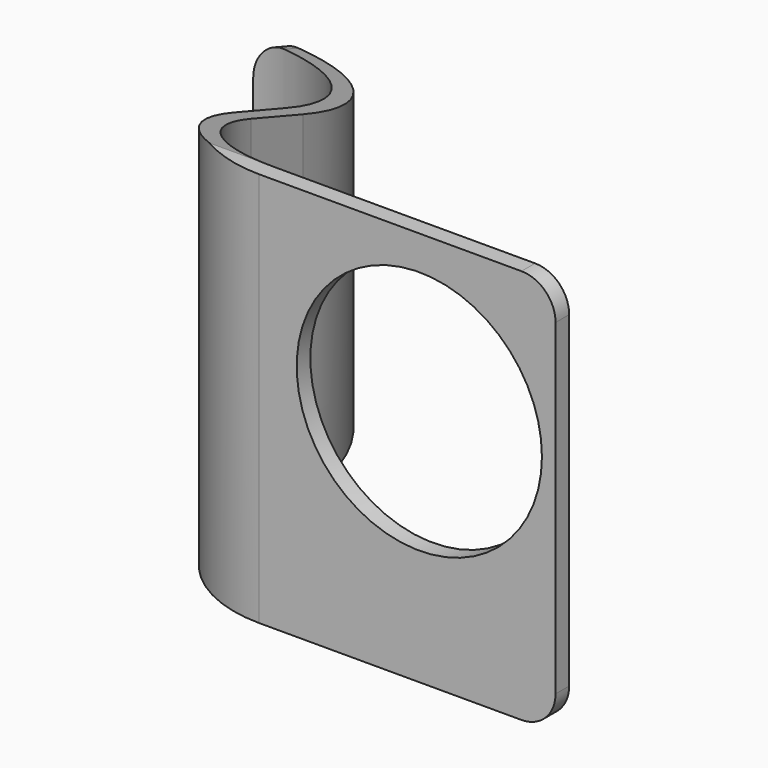
from build123d import *

# Parameters (mm, degrees)
F0_W     = 54.61
F0_H     = 76.2
F0_R     = 11.43
F1_DEPTH = 76.2
F3_DEPTH = 88.9
F5_DEPTH = 101.6
F6_R     = 3.175


with BuildPart() as f1:
    # F0 (on Front) → F1 (new body, symmetric)
    with BuildSketch(Plane.XZ):
        with Locations((-14.605, 15.875)):
            Rectangle(F0_W, F0_H)
        Circle(F0_R, mode=Mode.SUBTRACT)
    extrude(amount=F1_DEPTH, both=True)

    # F2 (on Top) → F3 (intersect, symmetric)
    with BuildSketch(Plane.XY):
        with BuildLine():
            Line((12.7, 0), (-14.9225, 0))
            ThreePointArc((-14.9225, 0), (-22.1067048969, 2.9757951031), (-25.0825, 10.16))
            Line((-25.0825, 10.16), (-25.0825, 16.2052))
            ThreePointArc((-25.0825, 16.2052), (-30.0111606396, 28.1040393604), (-41.91, 33.0327))
            Line((-41.91, 33.0327), (-67.31, 33.0327))
            Line((-67.31, 33.0327), (-67.31, 31.4452))
            Line((-67.31, 31.4452), (-41.91, 31.4452))
            ThreePointArc((-41.91, 31.4452), (-31.1336926547, 26.9815073453), (-26.67, 16.2052))
            Line((-26.67, 16.2052), (-26.67, 10.16))
            ThreePointArc((-26.67, 10.16), (-23.229236912, 1.853263088), (-14.9225, -1.5875))
            Line((-14.9225, -1.5875), (12.7, -1.5875))
            Line((12.7, -1.5875), (12.7, 0))
        make_face()
    extrude(amount=F3_DEPTH, both=True, mode=Mode.INTERSECT)

    # F4 (on Right) → F5 (intersect, symmetric)
    with BuildSketch(Plane.YZ):
        Polygon((33.0327, 3.1664020477), (0, 14.605), (-1.5875, 14.605), (-1.5875, -22.225), (33.0327, -22.225), align=None)
    extrude(amount=F5_DEPTH, both=True, mode=Mode.INTERSECT)

    # F6
    f6_edges = [f1.edges().sort_by_distance(p)[0] for p in [
        (12.7, -0.79375, 14.605),
        (12.7, -0.79375, -22.225),
        (-41.91, 32.23895, 3.441263),
        (-41.91, 32.23895, -22.225),
    ]]
    fillet(f6_edges, radius=F6_R)


solid = f1.part
